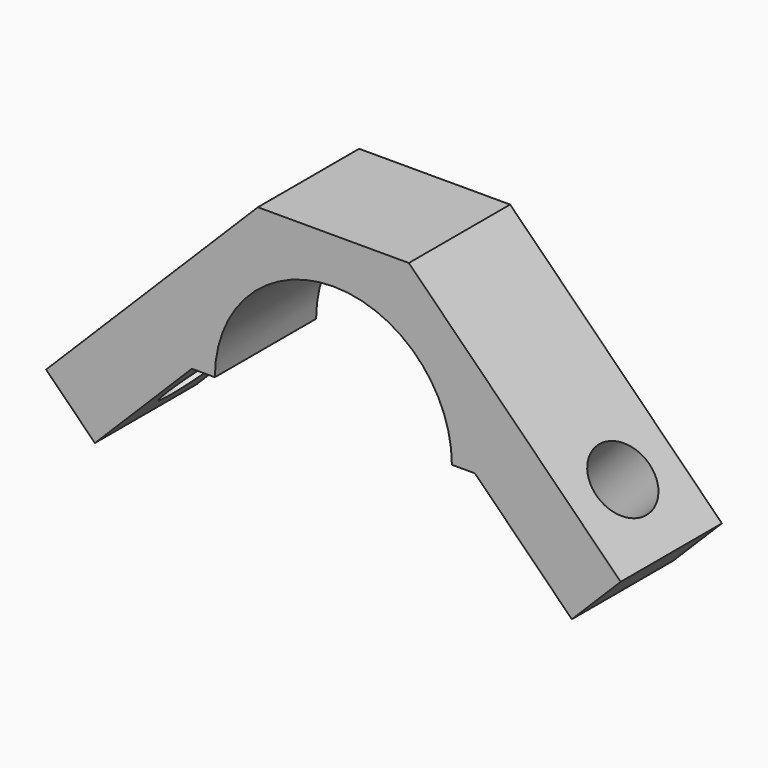
from build123d import *

# Parameters (mm, degrees)
F1_DEPTH = 5.5
F2_R     = 1.45
F3_DEPTH = 25
F4_R     = 1.45
F5_DEPTH = 25


with BuildPart() as f1:
    # F0 (on Front) → F1 (new body)
    with BuildSketch(Plane.XZ):
        with BuildLine():
            ThreePointArc((-5.15, 0), (0, 5.15), (5.15, 0))
            Line((5.15, 0), (6.15, 0))
            Line((6.15, 0), (10.362235, -4.212235))
            Line((10.362235, -4.212235), (12.483555, -2.090915))
            Line((12.483555, -2.090915), (3.280338, 7.112302))
            Line((3.280338, 7.112302), (-3.280338, 7.112302))
            Line((-3.280338, 7.112302), (-12.483555, -2.090915))
            Line((-12.483555, -2.090915), (-10.362235, -4.212235))
            Line((-10.362235, -4.212235), (-6.15, 0))
            Line((-6.15, 0), (-5.15, 0))
        make_face()
    extrude(amount=F1_DEPTH)

    # F2 (on face) → F3 (cut)
    with BuildSketch(Plane(origin=(-5.19632, 0, 5.19632), x_dir=(0, -1, 0), z_dir=(-0.707107, 0, 0.707107))):
        with Locations((2.75, -7.327207)):
            Circle(F2_R)
    extrude(amount=-F3_DEPTH, mode=Mode.SUBTRACT)

    # F4 (on face) → F5 (cut)
    with BuildSketch(Plane(origin=(5.19632, 0, 5.19632), x_dir=(0, 1, 0), z_dir=(0.707107, 0, 0.707107))):
        with Locations((-2.75, -7.327207)):
            Circle(F4_R)
    extrude(amount=-F5_DEPTH, mode=Mode.SUBTRACT)


solid = f1.part
